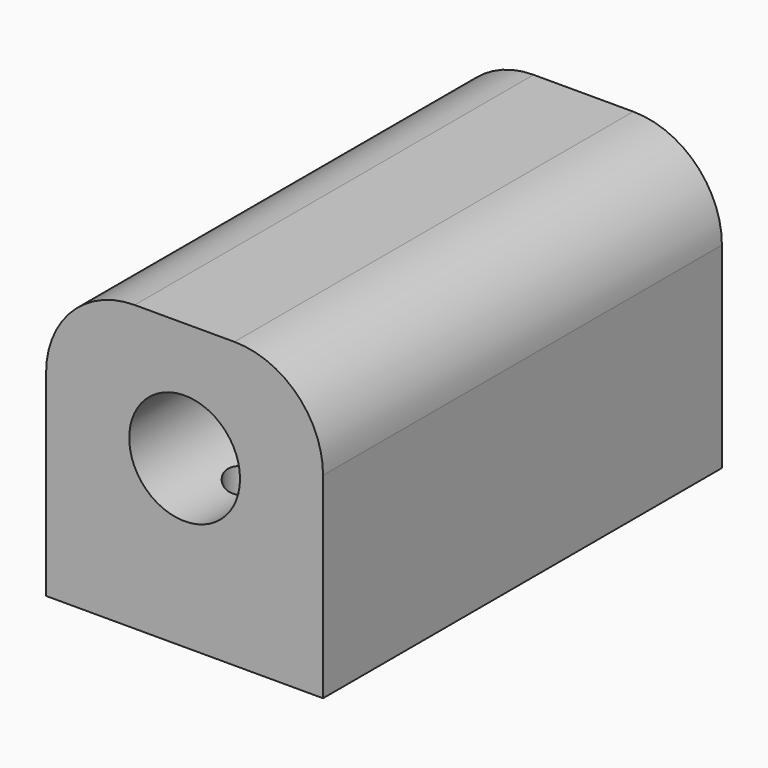
from build123d import *

# Parameters (mm, degrees)
F0_W     = 7.9375
F0_H     = 8.1661
F0_R     = 1.5875
F1_DEPTH = 14.2875
F2_R     = 2.54
F3_R     = 1.19126
F4_DEPTH = 2.54
F3_R_2   = 0.6604
F5_DEPTH = 3.81


with BuildPart() as f1:
    # F0 (on Front) → F1 (new body)
    with BuildSketch(Plane.XZ):
        with Locations((3.96875, 4.08305)):
            Rectangle(F0_W, F0_H)
        with Locations((3.97002, 4.7625)):
            Circle(F0_R, mode=Mode.SUBTRACT)
    extrude(amount=-F1_DEPTH)

    # F2
    f2_edges = [f1.edges().sort_by_distance(p)[0] for p in [
        (0, 7.14375, 8.1661),
        (7.9375, 7.14375, 8.1661),
    ]]
    fillet(f2_edges, radius=F2_R)

    # F3 (on Top) → F4 (cut)
    with BuildSketch(Plane.XY):
        with Locations((3.97002, 8.73252)):
            Circle(F3_R)
    extrude(amount=F4_DEPTH, mode=Mode.SUBTRACT)

    # F3 (on Top) → F5 (cut)
    with BuildSketch(Plane.XY):
        with Locations((3.97002, 2.38252)):
            Circle(F3_R_2)
    extrude(amount=F5_DEPTH, mode=Mode.SUBTRACT)


solid = f1.part
